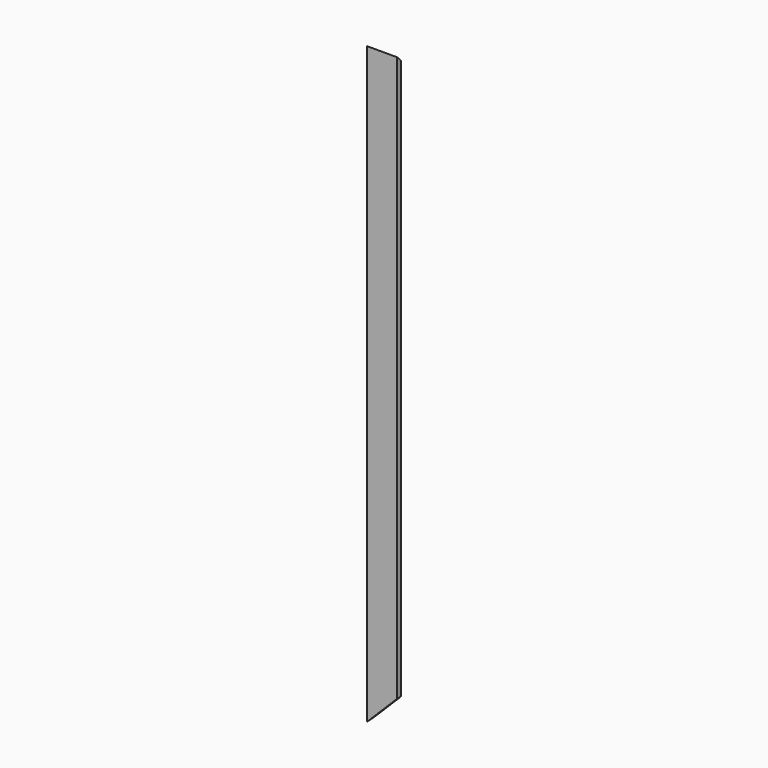
from build123d import *

# Parameters (mm, degrees)
F1_DEPTH = 982.5
F3_DEPTH = 50.001
F5_DEPTH = 8
F7_DEPTH = 8


with BuildPart() as f1:
    # F0 (on Top) → F1 (new body)
    with BuildSketch(Plane.XY):
        Polygon((0, 50), (0, 0), (50, 0), (50, 8), (8, 8), (8, 50), align=None)
    extrude(amount=F1_DEPTH)

    # F2 (on face) → F3 (cut, through all)
    with BuildSketch(Plane(origin=(0, 0, 0), x_dir=(0, -1, 0), z_dir=(-1, 0, 0))):
        Polygon((-50, 932.5), (0, 982.5), (-50, 982.5), align=None)
    extrude(amount=-F3_DEPTH, mode=Mode.SUBTRACT)

    # F4 (on face) → F5 (cut, through all)
    with BuildSketch(Plane.XZ):
        Polygon((50, 50), (0, 0), (50, 0), align=None)
    extrude(amount=-F5_DEPTH, mode=Mode.SUBTRACT)

    # F6 (on face) → F7 (cut, through all)
    with BuildSketch(Plane(origin=(0, 0, 0), x_dir=(0, -1, 0), z_dir=(-1, 0, 0))):
        Polygon((-8, 0), (0, 0), (-50, 50), (-50, 0), align=None)
    extrude(amount=-F7_DEPTH, mode=Mode.SUBTRACT)


solid = f1.part
